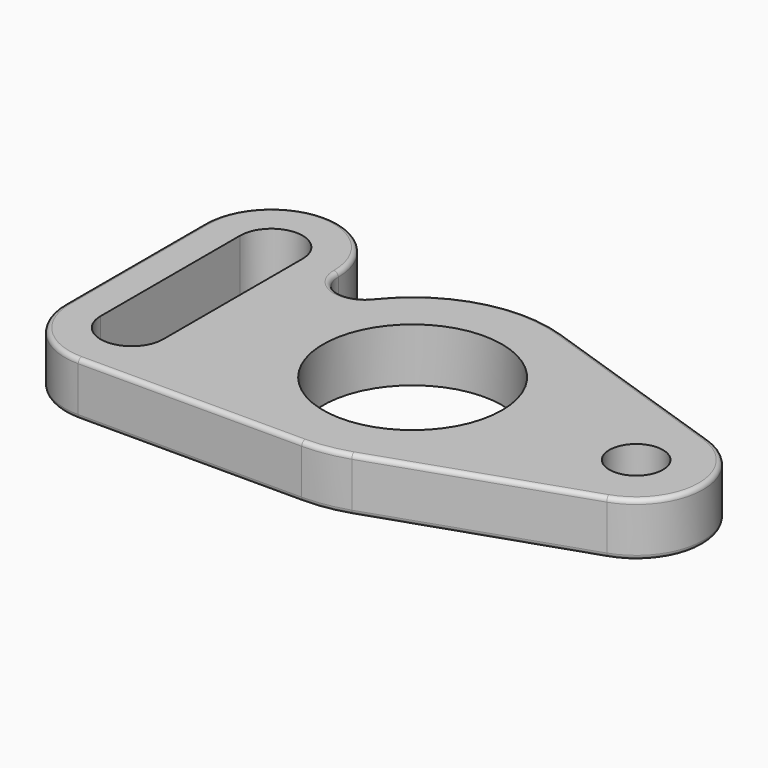
from build123d import *

# Parameters (mm, degrees)
SKETCH_R    = 20
SKETCH_R_2  = 6
PAD_DEPTH   = 12
FILLET_R    = 1
FILLET001_R = 1


with BuildPart() as part:
    # Sketch → Pad (new body)
    with BuildSketch(Plane.XY):
        with BuildLine():
            ThreePointArc((0, -31), (5.026517, -30.589772), (9.92, -29.369944))
            Line((9.92, -29.369944), (54.8, -14.211263))
            ThreePointArc((54.8, -14.211263), (65, 0), (54.8, 14.211263))
            Line((54.8, 14.211263), (9.919999, 29.369944))
            ThreePointArc((9.919999, 29.369944), (-8.790322, 29.727601), (-24.297307, 19.252036))
            ThreePointArc((-35.000008, 22.984455), (-30.975734, 17.312857), (-24.297307, 19.252036))
            ThreePointArc((-35.000008, 22.984455), (-49.992227, 37.999998), (-65, 23))
            Line((-65, 23), (-65, -16))
            ThreePointArc((-65, -16), (-60.606602, -26.606602), (-50, -31))
            Line((-50, -31), (0, -31))
        make_face()
        Circle(SKETCH_R, mode=Mode.SUBTRACT)
        with Locations((50, 0)):
            Circle(SKETCH_R_2, mode=Mode.SUBTRACT)
        with BuildLine():
            ThreePointArc((-57, -16), (-50.000013, -23), (-43, -16.000027))
            Line((-43, 23), (-43, -16.000027))
            ThreePointArc((-43, 23), (-50, 30), (-57, 23))
            Line((-57, -16), (-57, 23))
        make_face(mode=Mode.SUBTRACT)
    extrude(amount=PAD_DEPTH)

    # Fillet
    fillet_edges = [part.edges().sort_by_distance(p)[0] for p in [
        (32.36, -21.790603, 12),
        (5.026517, -30.589772, 12),
        (-25, -31, 12),
        (-60.606602, -26.606602, 12),
        (-65, 3.5, 12),
        (-49.992227, 37.999998, 12),
        (-30.975734, 17.312857, 12),
        (-8.790322, 29.727601, 12),
        (32.36, 21.790604, 12),
        (65, 0, 12),
    ]]
    fillet(fillet_edges, radius=FILLET_R)

    # Fillet001
    fillet001_edges = [part.edges().sort_by_distance(p)[0] for p in [
        (5.026517, -30.589772, 0),
        (-25, -31, 0),
        (-60.606602, -26.606602, 0),
        (-65, 3.5, 0),
        (-49.992227, 37.999998, 0),
        (-30.975734, 17.312857, 0),
        (-8.790322, 29.727601, 0),
        (32.36, 21.790604, 0),
        (65, 0, 0),
        (32.36, -21.790603, 0),
    ]]
    fillet(fillet001_edges, radius=FILLET001_R)


solid = part.part
